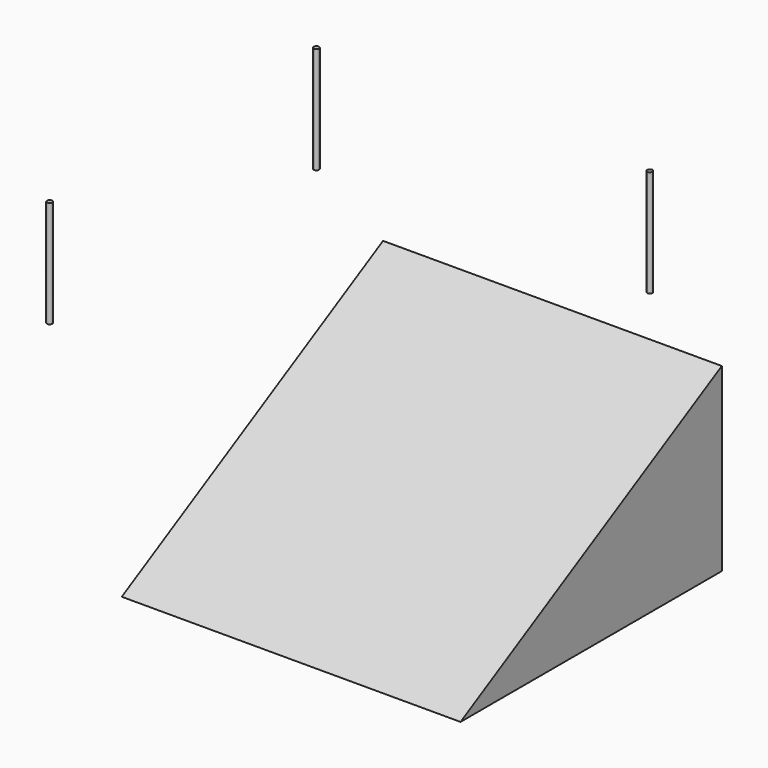
from build123d import *

# Parameters (mm, degrees)
F1_DEPTH = 400
F3_DEPTH = 1270
F4_ANGLE = 90


with BuildPart() as f1:
    # F0 (on Top) → F1 (new body)
    with BuildSketch(Plane.XY):
        with BuildLine():
            Line((0, 1250), (0, 1240))
            ThreePointArc((0, 1240), (7.071068, 1242.928932), (10, 1250))
            ThreePointArc((10, 1250), (0, 1260), (-10, 1250))
            Line((-10, 1250), (0, 1250))
        make_face()
        with BuildLine():
            ThreePointArc((-10, 1250), (-7.071068, 1242.928932), (0, 1240))
            Line((0, 1240), (0, 1250))
            Line((0, 1250), (-10, 1250))
        make_face()
        with BuildLine():
            Line((-1250, 1250), (-1240, 1250))
            ThreePointArc((-1240, 1250), (-1257.071068, 1257.071068), (-1250, 1240))
            Line((-1250, 1240), (-1250, 1250))
        make_face()
        with BuildLine():
            ThreePointArc((-1250, 1240), (-1242.928932, 1242.928932), (-1240, 1250))
            Line((-1240, 1250), (-1250, 1250))
            Line((-1250, 1250), (-1250, 1240))
        make_face()
        with BuildLine():
            ThreePointArc((-1250, 10), (-1257.071068, -7.071068), (-1240, 0))
            Line((-1240, 0), (-1250, 0))
            Line((-1250, 0), (-1250, 10))
        make_face()
        with BuildLine():
            Line((-1250, 0), (-1240, 0))
            ThreePointArc((-1240, 0), (-1242.928932, 7.071068), (-1250, 10))
            Line((-1250, 10), (-1250, 0))
        make_face()
        with BuildLine():
            Line((0, 10), (0, 0))
            Line((0, 0), (-10, 0))
            ThreePointArc((-10, 0), (0, -10), (10, 0))
            ThreePointArc((10, 0), (7.071068, 7.071068), (0, 10))
        make_face()
        with BuildLine():
            Line((-10, 0), (0, 0))
            Line((0, 0), (0, 10))
            ThreePointArc((0, 10), (-7.071068, 7.071068), (-10, 0))
        make_face()
    extrude(amount=F1_DEPTH)


with BuildPart() as f3:
    # F2 (on Front) → F3 (new body)
    with BuildSketch(Plane.XZ):
        Polygon((0, 400.341839), (0, 0), (1224.352837, 0), (0, 677.05965), (0, 641.092658), align=None)
    extrude(amount=-F3_DEPTH)


with BuildPart() as f3_1:
    # F4: moved
    add(f3.part.rotate(Axis((0, 0, 0), (0, 0, -1)), F4_ANGLE))


solid = Compound([f1.part, f3_1.part])
